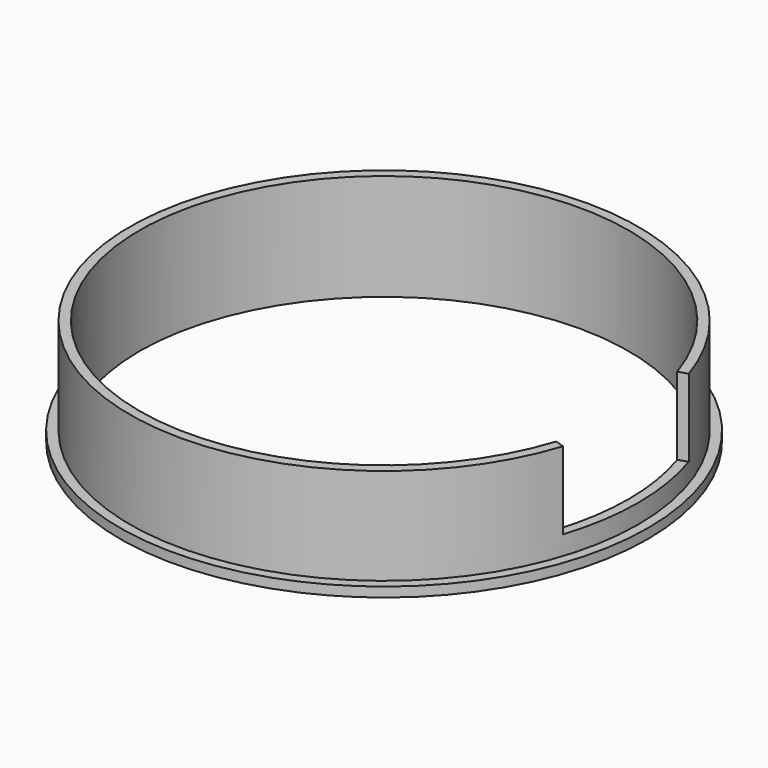
from build123d import *

# Parameters (mm, degrees)
F0_W          = 1
F0_H          = 8.0183284022
F2_ANGLE_BACK = 18
F2_ANGLE      = 36


with BuildPart() as f1:
    # F0 (on Front) → F1 (revolve)
    with BuildSketch(Plane.XZ):
        Polygon((25.295096, 2.9816715978), (25.295096, 0), (27.295096, 0), (27.295096, 1), (26.295096, 1), (26.295096, 2.9816715978), align=None)
        with Locations((25.795096, 6.9908357989)):
            Rectangle(F0_W, F0_H)
    revolve(axis=Axis((0, 0, 8.8810138404), (0, 0, 1)))

    # F0 (on Front) → F2 (revolve, cut)
    with BuildSketch(Plane.XZ, mode=Mode.PRIVATE) as f2_sk:
        Polygon((17.5041668117, 2.9816715978), (25.295096, 2.9816715978), (25.295096, 11), (26.295096, 11), (26.295096, 2.9816715978), (28.2746478915, 2.9816715978), (28.2746478915, 12.9816715978), (17.5041668117, 12.9816715978), align=None)
        with Locations((25.795096, 6.9908357989)):
            Rectangle(F0_W, F0_H)
    revolve(f2_sk.sketch.rotate(Axis((0, 0, 8.8810138404), (0, 0, 1)), -F2_ANGLE_BACK), axis=Axis((0, 0, 8.8810138404), (0, 0, 1)), revolution_arc=F2_ANGLE, mode=Mode.SUBTRACT)


solid = f1.part
